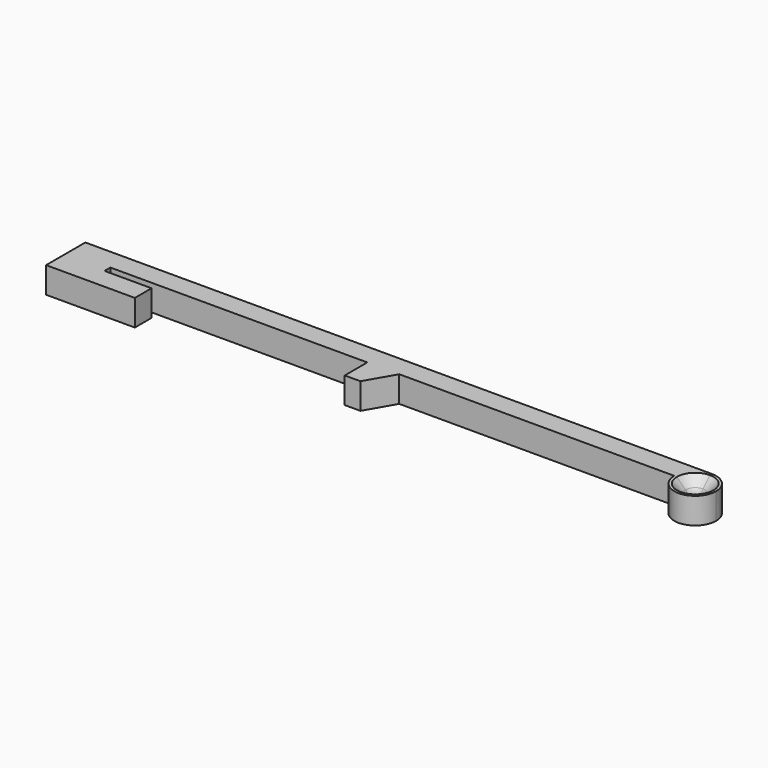
from build123d import *

# Parameters (mm, degrees)
F1_DEPTH = 5
F2_SIZE  = 2
F3_R     = 1.2


with BuildPart() as f1:
    # F0 (on Top) → F1 (new body)
    with BuildSketch(Plane.XY):
        with BuildLine():
            Line((-120, 1.5907304411), (-103, 1.5907304411))
            Line((-103, 1.5907304411), (-103, 5.5907304411))
            Line((-103, 5.5907304411), (-112, 5.5907304411))
            Line((-112, 5.5907304411), (-112, 6.9907304411))
            Line((-112, 6.9907304411), (-62.8, 6.9907304411))
            Line((-62.8, 6.9907304411), (-62.8, 1.5907304411))
            Line((-62.8, 1.5907304411), (-59.8, 1.5907304411))
            Line((-59.8, 1.5907304411), (-56.6823085464, 6.9907304411))
            Line((-56.6823085464, 6.9907304411), (-4, 6.9907304411))
            ThreePointArc((-4, 6.9907304411), (-2.8284271247, 9.8191575658), (0, 10.9907304411))
            Line((0, 10.9907304411), (-120, 10.9907304411))
            Line((-120, 10.9907304411), (-120, 1.5907304411))
        make_face()
        with BuildLine():
            ThreePointArc((4, 6.9907304411), (2.8284271247, 9.8191575658), (0, 10.9907304411))
            Line((0, 10.9907304411), (0, 8.4907304411))
            ThreePointArc((0, 8.4907304411), (1.0606601718, 8.0513906128), (1.5, 6.9907304411))
            ThreePointArc((1.5, 6.9907304411), (0, 5.4907304411), (-1.5, 6.9907304411))
            Line((-1.5, 6.9907304411), (-4, 6.9907304411))
            ThreePointArc((-4, 6.9907304411), (0, 2.9907304411), (4, 6.9907304411))
        make_face()
        with BuildLine():
            Line((0, 8.4907304411), (0, 10.9907304411))
            ThreePointArc((0, 10.9907304411), (-2.8284271247, 9.8191575658), (-4, 6.9907304411))
            Line((-4, 6.9907304411), (-1.5, 6.9907304411))
            ThreePointArc((-1.5, 6.9907304411), (-1.0606601718, 8.0513906128), (0, 8.4907304411))
        make_face()
    extrude(amount=F1_DEPTH)

    # F2
    f2_edges = [f1.edges().sort_by_distance(p)[0] for p in [
        (0, 5.49073, 5),
        (0, 5.49073, 0),
    ]]
    chamfer(f2_edges, length=F2_SIZE)

    # F3
    f3_edges = [f1.edges().sort_by_distance(p)[0] for p in [
        (0, 8.49073, 2.5),
        (0, 5.49073, 2),
        (0, 5.49073, 3),
    ]]
    fillet(f3_edges, radius=F3_R)


solid = f1.part
